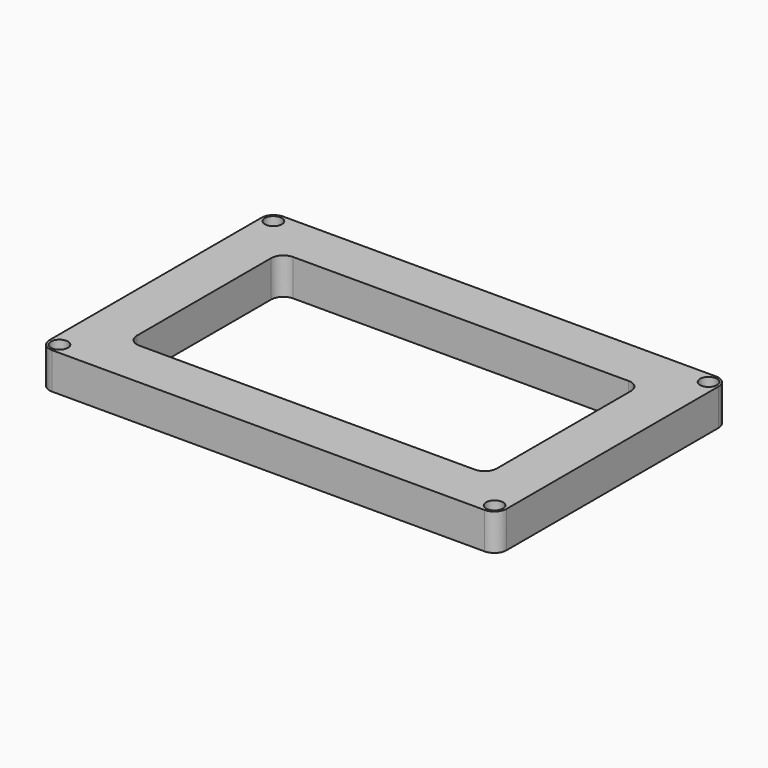
from build123d import *

# Parameters (mm, degrees)
F0_W     = 188
F0_H     = 119
F0_R     = 3.5
F0_W_2   = 148
F0_H_2   = 79
F0_R_2   = 2
F1_DEPTH = 15
F2_DEPTH = 9
F3_R     = 5


with BuildPart() as f1:
    # F0 (on Top) → F1 (new body)
    with BuildSketch(Plane.XY):
        Rectangle(F0_W, F0_H)
        with Locations((-89.5, -55)):
            Circle(F0_R, mode=Mode.SUBTRACT)
        with Locations((89.5, -55)):
            Circle(F0_R, mode=Mode.SUBTRACT)
        with Locations((-89.5, 55)):
            Circle(F0_R, mode=Mode.SUBTRACT)
        Rectangle(F0_W_2, F0_H_2, mode=Mode.SUBTRACT)
        with Locations((89.5, 55)):
            Circle(F0_R, mode=Mode.SUBTRACT)
        with Locations((-89.5, 55)):
            Circle(F0_R)
        with Locations((-89.5, 55)):
            Circle(F0_R_2, mode=Mode.SUBTRACT)
        with Locations((89.5, 55)):
            Circle(F0_R)
        with Locations((89.5, 55)):
            Circle(F0_R_2, mode=Mode.SUBTRACT)
        with Locations((89.5, -55)):
            Circle(F0_R)
        with Locations((89.5, -55)):
            Circle(F0_R_2, mode=Mode.SUBTRACT)
        with Locations((-89.5, -55)):
            Circle(F0_R)
        with Locations((-89.5, -55)):
            Circle(F0_R_2, mode=Mode.SUBTRACT)
    extrude(amount=-F1_DEPTH)

    # F0 (on Top) → F2 (cut)
    with BuildSketch(Plane.XY):
        with Locations((-89.5, 55)):
            Circle(F0_R)
        with Locations((-89.5, 55)):
            Circle(F0_R_2, mode=Mode.SUBTRACT)
        with Locations((89.5, 55)):
            Circle(F0_R)
        with Locations((89.5, 55)):
            Circle(F0_R_2, mode=Mode.SUBTRACT)
        with Locations((89.5, -55)):
            Circle(F0_R)
        with Locations((89.5, -55)):
            Circle(F0_R_2, mode=Mode.SUBTRACT)
        with Locations((-89.5, -55)):
            Circle(F0_R)
        with Locations((-89.5, -55)):
            Circle(F0_R_2, mode=Mode.SUBTRACT)
    extrude(amount=-F2_DEPTH, mode=Mode.SUBTRACT)

    # F3
    f3_edges = [f1.edges().sort_by_distance(p)[0] for p in [
        (94, 59.5, -7.5),
        (-94, 59.5, -7.5),
        (-94, -59.5, -7.5),
        (94, -59.5, -7.5),
        (-74, 39.5, -7.5),
        (74, 39.5, -7.5),
        (74, -39.5, -7.5),
        (-74, -39.5, -7.5),
    ]]
    fillet(f3_edges, radius=F3_R)


solid = f1.part
